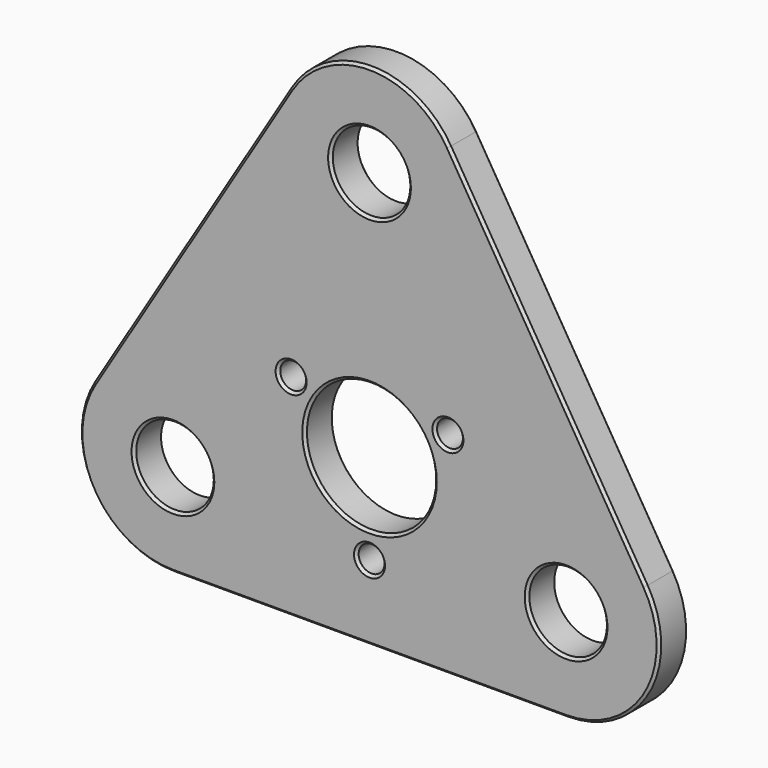
from build123d import *

# Parameters (mm, degrees)
F0_R     = 7.5
F0_R_2   = 12.5
F1_DEPTH = 7
F3_D     = 5
F4_SIZE  = 0.5


with BuildPart() as f1:
    # F0 (on Front) → F1 (new body)
    with BuildSketch(Plane.XZ):
        with BuildLine():
            ThreePointArc((-53.3733215365, -4.6372554806), (-53.6928232219, -22.8167624061), (-38, -32))
            Line((-38, -32), (38, -32))
            ThreePointArc((38, -32), (53.6928232219, -22.8167624061), (53.3733215365, -4.6372554806))
            Line((53.3733215365, -4.6372554806), (15.3733215365, 57.7575067788))
            ThreePointArc((15.3733215365, 57.7575067788), (0, 66.3947622594), (-15.3733215365, 57.7575067788))
            Line((-15.3733215365, 57.7575067788), (-53.3733215365, -4.6372554806))
        make_face()
        with Locations((-38, -14)):
            Circle(F0_R, mode=Mode.SUBTRACT)
        with Locations((38, -14)):
            Circle(F0_R, mode=Mode.SUBTRACT)
        Circle(F0_R_2, mode=Mode.SUBTRACT)
        with Locations((0, 48.3947622594)):
            Circle(F0_R, mode=Mode.SUBTRACT)
    extrude(amount=F1_DEPTH)

    # F3 (through all)
    with Locations(Plane.XZ.offset(7)):
        with Locations((-15.1554445662, 8.75), (15.1554445662, 8.75), (0, -17.5)):
            Hole(F3_D / 2)

    # F4
    f4_edges = [f1.edges().sort_by_distance(p)[0] for p in [
        (-53.692823, -7, -22.816762),
        (-34.373322, -7, 26.560126),
        (0, -7, -32),
        (0, -7, 66.394762),
        (53.692823, -7, -22.816762),
        (34.373322, -7, 26.560126),
        (-45.5, -7, -14),
        (-17.655445, -7, 8.75),
        (-2.5, -7, -17.5),
        (30.5, -7, -14),
        (-12.5, -7, 0),
        (12.655445, -7, 8.75),
        (-7.5, -7, 48.394762),
        (-53.692823, 0, -22.816762),
        (-34.373322, 0, 26.560126),
        (0, 0, -32),
        (0, 0, 66.394762),
        (53.692823, 0, -22.816762),
        (34.373322, 0, 26.560126),
        (-45.5, 0, -14),
        (-17.655445, 0, 8.75),
        (-2.5, 0, -17.5),
        (30.5, 0, -14),
        (-12.5, 0, 0),
        (12.655445, 0, 8.75),
        (-7.5, 0, 48.394762),
    ]]
    chamfer(f4_edges, length=F4_SIZE)


solid = f1.part
